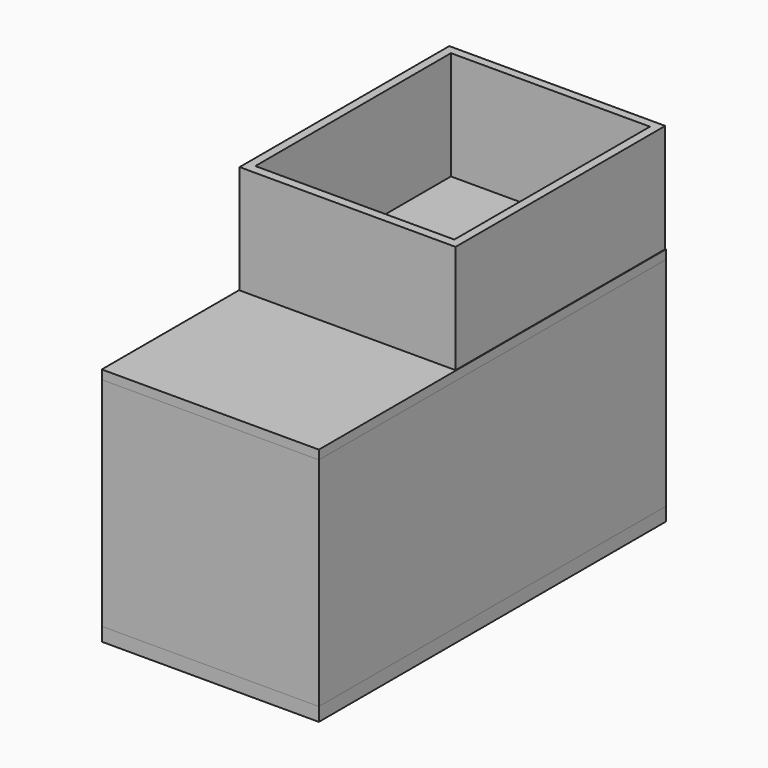
from build123d import *

# Parameters (mm, degrees)
F0_W     = 2438.4
F0_H     = 4876.8
F1_DEPTH = 152.4
F2_W     = 2438.4
F2_H     = 4876.8
F2_W_2   = 2235.2
F2_H_2   = 4673.6
F3_DEPTH = 2438.4
F4_W     = 2438.4
F4_H     = 4876.8
F5_DEPTH = 101.6
F6_W     = 2425.7
F6_H     = 2943.261365
F6_W_2   = 2235.2
F6_H_2   = 2746.411365
F7_DEPTH = 1219.2


with BuildPart() as f1:
    # F0 (on Top) → F1 (new body)
    with BuildSketch(Plane.XY):
        with Locations((1219.2, 2438.4)):
            Rectangle(F0_W, F0_H)
    extrude(amount=F1_DEPTH)


with BuildPart() as f3:
    # F2 (on face) → F3 (new body)
    with BuildSketch(Plane.XY.offset(152.4)):
        with Locations((1219.2, 2438.4)):
            Rectangle(F2_W, F2_H)
        with Locations((1219.2, 2438.4)):
            Rectangle(F2_W_2, F2_H_2, mode=Mode.SUBTRACT)
    extrude(amount=F3_DEPTH)


with BuildPart() as f5:
    # F4 (on face) → F5 (new body)
    with BuildSketch(Plane.XY.offset(2590.8)):
        with Locations((1219.2, 2438.4)):
            Rectangle(F4_W, F4_H)
    extrude(amount=F5_DEPTH)

    # F6 (on face) → F7 (join)
    with BuildSketch(Plane.XY.offset(2692.4)):
        with Locations((1219.2, 3398.819317)):
            Rectangle(F6_W, F6_H)
        with Locations((1219.2, 3401.994317)):
            Rectangle(F6_W_2, F6_H_2, mode=Mode.SUBTRACT)
    extrude(amount=F7_DEPTH)


solid = Compound([f1.part, f3.part, f5.part])
